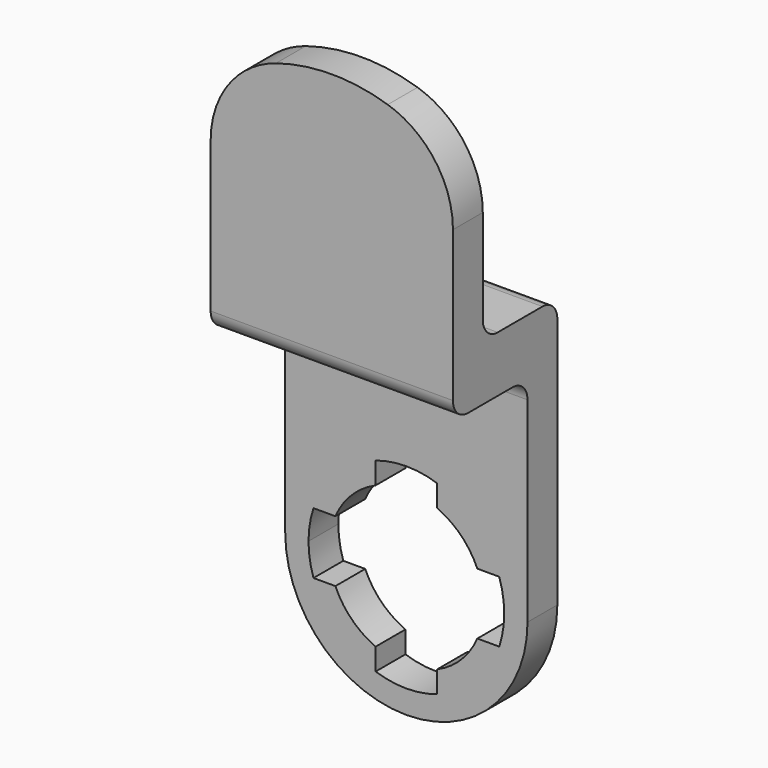
from build123d import *

# Parameters (mm, degrees)
F1_DEPTH = 2
F0_W     = 13
F0_H     = 3
F2_DEPTH = 7
F3_START = 5
F3_DEPTH = 2
F4_R     = 1
F5_R     = 5


with BuildPart() as f1:
    # F0 (on Front) → F1 (new body)
    with BuildSketch(Plane.XZ):
        with BuildLine():
            Line((3.8078865529, 1.65), (4.9839743178, 1.65))
            ThreePointArc((4.9839743178, 1.65), (3.7123106012, 3.7123106012), (1.65, 4.9839743178))
            Line((1.65, 4.9839743178), (1.65, 3.8078865529))
            ThreePointArc((1.65, 3.8078865529), (2.9344931419, 2.9344931419), (3.8078865529, 1.65))
        make_face()
        with BuildLine():
            ThreePointArc((-1.65, 4.9839743178), (-3.7123106012, 3.7123106012), (-4.9839743178, 1.65))
            Line((-4.9839743178, 1.65), (-3.8078865529, 1.65))
            ThreePointArc((-3.8078865529, 1.65), (-2.9344931419, 2.9344931419), (-1.65, 3.8078865529))
            Line((-1.65, 3.8078865529), (-1.65, 4.9839743178))
        make_face()
        with BuildLine():
            Line((-3.8078865529, -1.65), (-4.9839743178, -1.65))
            ThreePointArc((-4.9839743178, -1.65), (-3.7123106012, -3.7123106012), (-1.65, -4.9839743178))
            Line((-1.65, -4.9839743178), (-1.65, -3.8078865529))
            ThreePointArc((-1.65, -3.8078865529), (-2.9344931419, -2.9344931419), (-3.8078865529, -1.65))
        make_face()
        with BuildLine():
            ThreePointArc((1.65, -4.9839743178), (3.7123106012, -3.7123106012), (4.9839743178, -1.65))
            Line((4.9839743178, -1.65), (3.8078865529, -1.65))
            ThreePointArc((3.8078865529, -1.65), (2.9344931419, -2.9344931419), (1.65, -3.8078865529))
            Line((1.65, -3.8078865529), (1.65, -4.9839743178))
        make_face()
        with BuildLine():
            Line((-5.25, 0), (-6.5, 0))
            ThreePointArc((-6.5, 0), (0, -6.5), (6.5, 0))
            Line((6.5, 0), (5.25, 0))
            ThreePointArc((5.25, 0), (5.1830669091, -0.8356538852), (4.9839743178, -1.65))
            ThreePointArc((4.9839743178, -1.65), (3.7123106012, -3.7123106012), (1.65, -4.9839743178))
            ThreePointArc((1.65, -4.9839743178), (0, -5.25), (-1.65, -4.9839743178))
            ThreePointArc((-1.65, -4.9839743178), (-3.7123106012, -3.7123106012), (-4.9839743178, -1.65))
            ThreePointArc((-4.9839743178, -1.65), (-5.1830669091, -0.8356538852), (-5.25, 0))
        make_face()
        with BuildLine():
            ThreePointArc((-2.3184322471, 6.0724683544), (-5.3534946346, 3.6864746299), (-6.5, 0))
            Line((-6.5, 0), (-5.25, 0))
            ThreePointArc((-5.25, 0), (-5.1830669091, 0.8356538852), (-4.9839743178, 1.65))
            ThreePointArc((-4.9839743178, 1.65), (-3.7123106012, 3.7123106012), (-1.65, 4.9839743178))
            ThreePointArc((-1.65, 4.9839743178), (0, 5.25), (1.65, 4.9839743178))
            ThreePointArc((1.65, 4.9839743178), (3.7123106012, 3.7123106012), (4.9839743178, 1.65))
            ThreePointArc((4.9839743178, 1.65), (5.1830669091, 0.8356538852), (5.25, 0))
            Line((5.25, 0), (6.5, 0))
            ThreePointArc((6.5, 0), (5.3534946346, 3.6864746299), (2.3184322471, 6.0724683544))
            ThreePointArc((2.3184322471, 6.0724683544), (0, 5.8), (-2.3184322471, 6.0724683544))
        make_face()
        with BuildLine():
            ThreePointArc((2.3184322471, 6.0724683544), (0, 6.5), (-2.3184322471, 6.0724683544))
            ThreePointArc((-2.3184322471, 6.0724683544), (0, 5.8), (2.3184322471, 6.0724683544))
        make_face()
        with BuildLine():
            Line((-6.5, 8.2006579232), (-6.5, 0))
            ThreePointArc((-6.5, 0), (-5.3534946346, 3.6864746299), (-2.3184322471, 6.0724683544))
            ThreePointArc((-2.3184322471, 6.0724683544), (-4.5358003191, 6.8878445107), (-6.5, 8.2006579232))
        make_face()
        with BuildLine():
            ThreePointArc((2.3184322471, 6.0724683544), (5.3534946346, 3.6864746299), (6.5, 0))
            Line((6.5, 0), (6.5, 8.2006579232))
            ThreePointArc((6.5, 8.2006579232), (4.5358003191, 6.8878445107), (2.3184322471, 6.0724683544))
        make_face()
        with BuildLine():
            ThreePointArc((-6.5, 8.2006579232), (-4.5358003191, 6.8878445107), (-2.3184322471, 6.0724683544))
            ThreePointArc((-2.3184322471, 6.0724683544), (0, 6.5), (2.3184322471, 6.0724683544))
            ThreePointArc((2.3184322471, 6.0724683544), (4.5358003191, 6.8878445107), (6.5, 8.2006579232))
            Line((6.5, 8.2006579232), (6.5, 11.5))
            Line((6.5, 11.5), (-6.5, 11.5))
            Line((-6.5, 11.5), (-6.5, 8.2006579232))
        make_face()
    extrude(amount=F1_DEPTH)

    # F0 (on Front) → F2 (join)
    with BuildSketch(Plane.XZ):
        with Locations((0, 13)):
            Rectangle(F0_W, F0_H)
    extrude(amount=F2_DEPTH)

    # F0 (on Front) → F3 (join)
    with BuildSketch(Plane.XZ.offset(F3_START)):
        with BuildLine():
            ThreePointArc((-6.3804388564, 23.5), (-6.4404160803, 23.4499046211), (-6.5, 23.3993420768))
            Line((-6.5, 23.3993420768), (-6.5, 14.5))
            Line((-6.5, 14.5), (6.5, 14.5))
            Line((6.5, 14.5), (6.5, 23.3993420768))
            ThreePointArc((6.5, 23.3993420768), (6.4404160803, 23.4499046211), (6.3804388564, 23.5))
            Line((6.3804388564, 23.5), (-6.3804388564, 23.5))
        make_face()
        with BuildLine():
            ThreePointArc((6.3804388564, 23.5), (0, 25.8), (-6.3804388564, 23.5))
            Line((-6.3804388564, 23.5), (6.3804388564, 23.5))
        make_face()
    extrude(amount=F3_DEPTH)

    # F4
    f4_edges = [f1.edges().sort_by_distance(p)[0] for p in [
        (0, -2, 11.5),
        (0, -7, 11.5),
        (0, 0, 14.5),
        (0, -5, 14.5),
    ]]
    fillet(f4_edges, radius=F4_R)

    # F5
    f5_edges = [f1.edges().sort_by_distance(p)[0] for p in [
        (6.5, -6, 23.399342),
        (-6.5, -6, 23.399342),
    ]]
    fillet(f5_edges, radius=F5_R)


solid = f1.part
